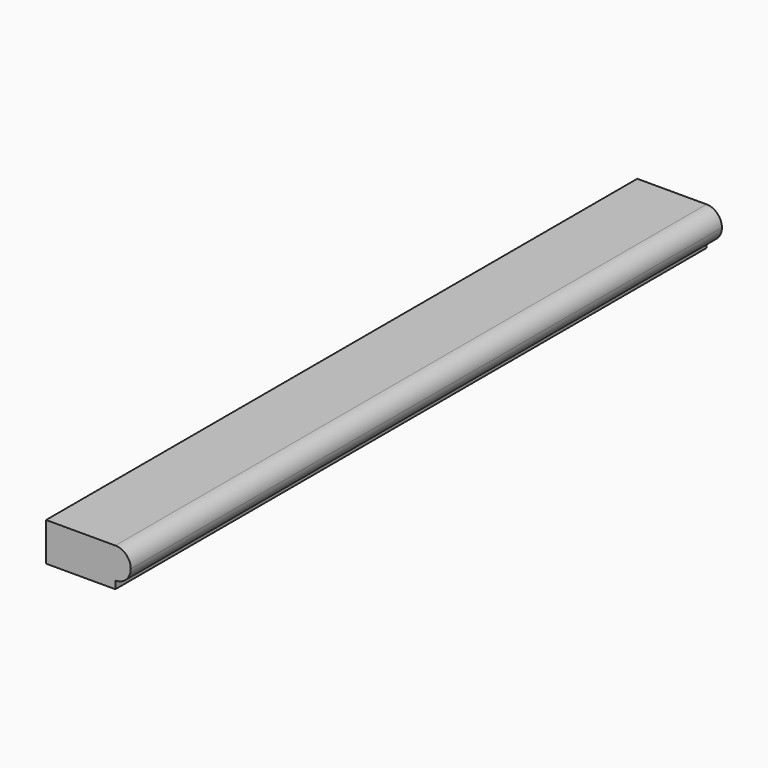
from build123d import *

# Parameters (mm, degrees)
F1_DEPTH = 152.4


with BuildPart() as f1:
    # F0 (on Front) → F1 (new body)
    with BuildSketch(Plane.XZ):
        with BuildLine():
            Line((-8.73125, 3.96875), (-8.73125, -3.96875))
            Line((-8.73125, -3.96875), (5.55625, -3.96875))
            Line((5.55625, -3.96875), (5.55625, -2.38125))
            ThreePointArc((5.55625, -2.38125), (7.801314, -1.451314), (8.73125, 0.79375))
            ThreePointArc((8.73125, 0.79375), (7.801314, 3.038814), (5.55625, 3.96875))
            Line((5.55625, 3.96875), (-8.73125, 3.96875))
        make_face()
    extrude(amount=F1_DEPTH)


solid = f1.part
